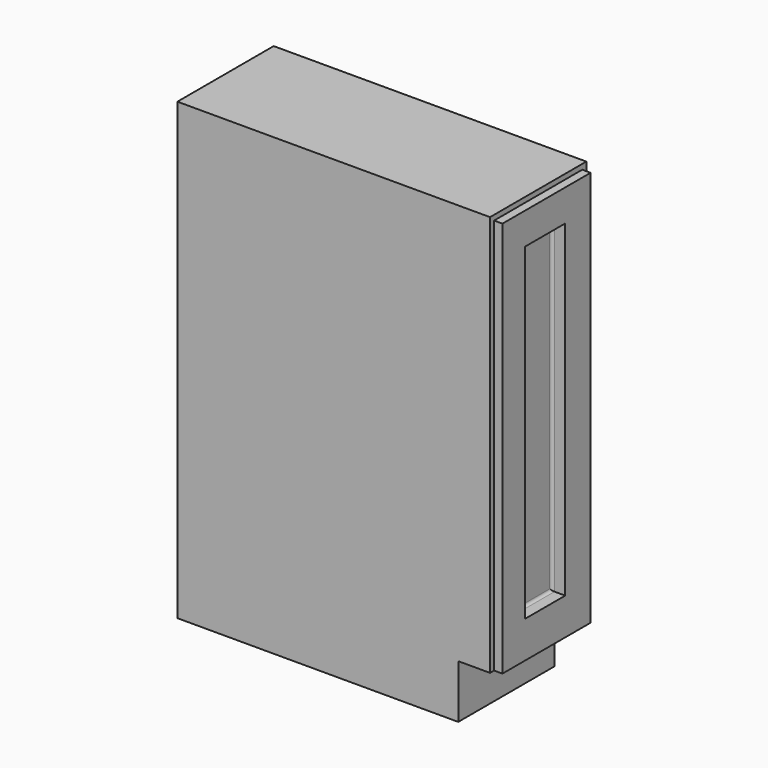
from build123d import *

# Parameters (mm, degrees)
F0_W     = 609.6
F0_H     = 228.6
F1_DEPTH = 863.6
F2_W     = 95.25
F2_H     = 622.3
F3_DEPTH = 25.4
F4_R     = 5.08
F5_W     = 228.6
F5_H     = 101.6
F6_DEPTH = 76.2
F7_W     = 228.6
F7_H     = 778.857014
F7_W_2   = 209.296
F7_H_2   = 759.553014
F8_DEPTH = 15.875


with BuildPart() as f1:
    # F0 (on Top) → F1 (new body)
    with BuildSketch(Plane.XY):
        with Locations((-304.8, 114.3)):
            Rectangle(F0_W, F0_H)
    extrude(amount=F1_DEPTH)

    # F2 (on face) → F3 (cut)
    with BuildSketch(Plane.YZ):
        with Locations((111.125, 482.6)):
            Rectangle(F2_W, F2_H)
    extrude(amount=-F3_DEPTH, mode=Mode.SUBTRACT)

    # F4
    f4_edges = [f1.edges().sort_by_distance(p)[0] for p in [
        (-25.4, 158.75, 482.6),
        (-25.4, 111.125, 793.75),
        (-25.4, 63.5, 482.6),
        (-25.4, 111.125, 171.45),
    ]]
    fillet(f4_edges, radius=F4_R)

    # F5 (on face) → F6 (cut)
    with BuildSketch(Plane.YZ):
        with Locations((114.3, 50.8)):
            Rectangle(F5_W, F5_H)
    extrude(amount=-F6_DEPTH, mode=Mode.SUBTRACT)

    # F7 (on face) → F8 (cut)
    with BuildSketch(Plane.YZ):
        with Locations((114.3, 474.171493)):
            Rectangle(F7_W, F7_H)
        with Locations((114.3, 474.171493)):
            Rectangle(F7_W_2, F7_H_2, mode=Mode.SUBTRACT)
    extrude(amount=-F8_DEPTH, mode=Mode.SUBTRACT)


solid = f1.part
